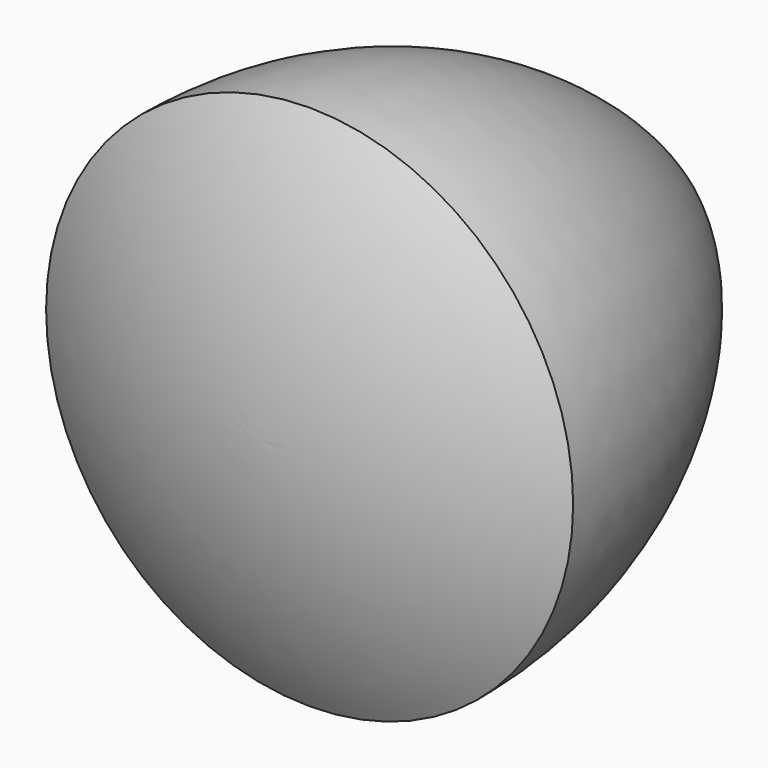
from build123d import *


with BuildPart() as f1:
    # F0 (on Top) → F1 (revolve)
    with BuildSketch(Plane.XY):
        with BuildLine():
            Line((0.052717, 60.676715), (0.052717, 60.53047))
            Line((0.052717, 60.53047), (35, 0))
            Line((35, 0), (0.052717, 0))
            Line((0.052717, 0), (0.052717, -9.549207))
            ThreePointArc((0.052717, -9.549207), (18.180508, -7.153136), (35.073767, -0.154869))
            ThreePointArc((35.073767, -0.154869), (25.729028, 34.962008), (0.052717, 60.676715))
        make_face()
        Polygon((35, 0), (0.052717, 60.53047), (0.052717, 0), align=None)
    revolve(axis=Axis((0.052717, 25.563754, 0), (0, -1, 0)))


solid = f1.part
